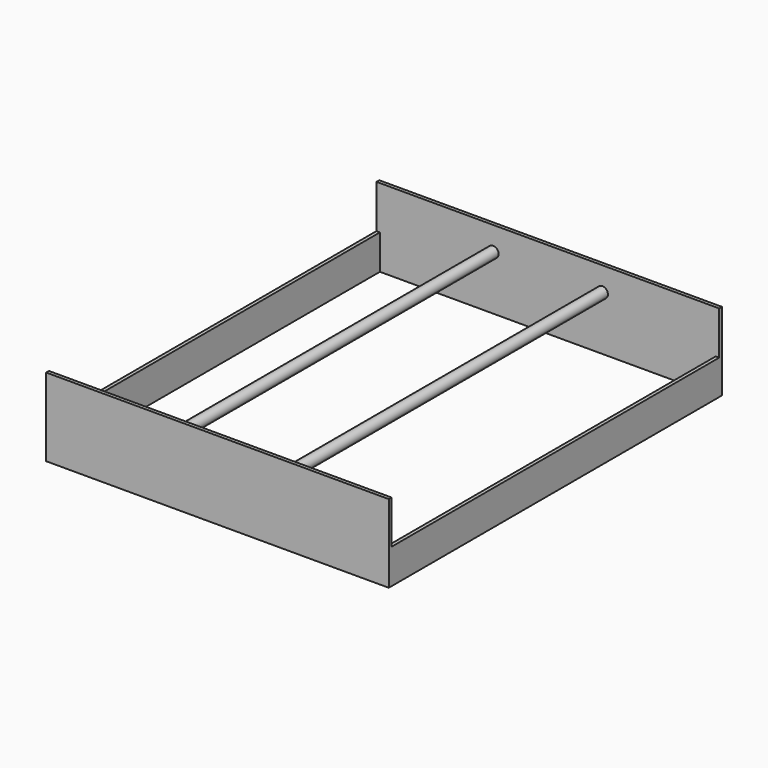
from build123d import *

# Parameters (mm, degrees)
F1_W     = 250.825
F1_H     = 2.54
F2_DEPTH = 57.15
F3_W     = 2.54
F3_H     = 25.4
F4_DEPTH = 302.26
F6_R     = 4
F7_DEPTH = 302.26


with BuildPart() as f2:
    # F1 (on Top) → F2 (new body)
    with BuildSketch(Plane.XY):
        with Locations((0, 1.27)):
            Rectangle(F1_W, F1_H)
        with Locations((0, 303.53)):
            Rectangle(F1_W, F1_H)
    extrude(amount=F2_DEPTH)

    # F6 (on Front) → F7 (join, through all)
    with BuildSketch(Plane.XZ):
        with Locations((40, 39.747968)):
            Circle(F6_R)
    extrude(amount=-F7_DEPTH)



with BuildPart() as f4:
    # F3 (on Front) → F4 (new body, through all)
    with BuildSketch(Plane.XZ):
        with Locations((124.1425, 12.7)):
            Rectangle(F3_W, F3_H)
    extrude(amount=-F4_DEPTH)


with BuildPart() as f5_1:
    # F5: instance of F4
    add(f4.part.mirror(Plane.YZ))


with BuildPart() as f2_1:
    add(f2.part)

    add(f4.part)  # F8 merges F4

    add(f5_1.part)  # F8 merges F5_1
    # F8: F2 across plane


with BuildPart() as f2_2:
    add(f2_1.part)
    add(f2_1.part.mirror(Plane.YZ))


solid = f2_2.part
